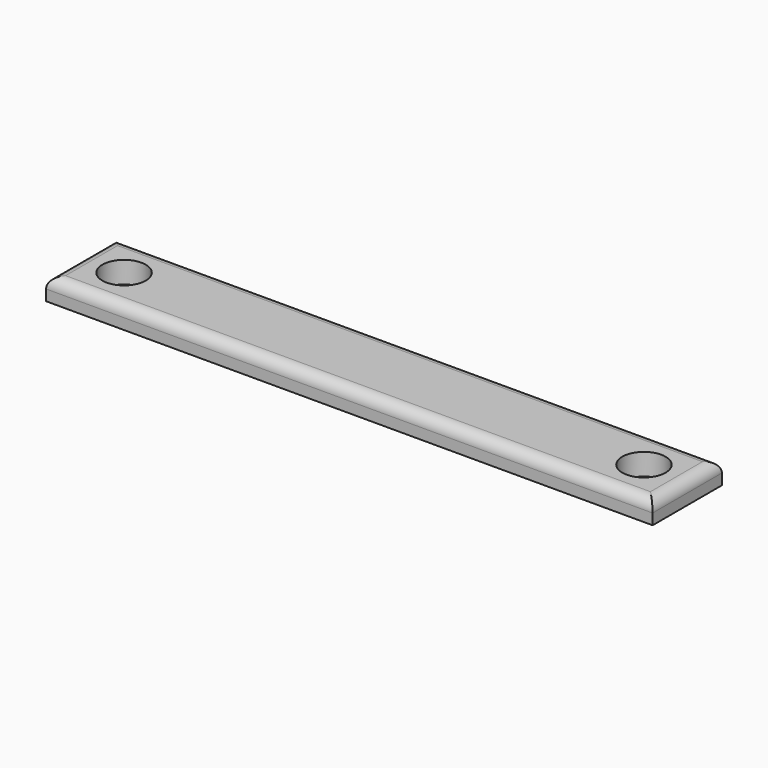
from build123d import *

# Parameters (mm, degrees)
F0_W     = 50
F0_H     = 20
F0_W_2   = 20
F0_R     = 5
F1_DEPTH = 5
F2_R     = 2.5


with BuildPart() as f1:
    # F0 (on Top) → F1 (new body)
    with BuildSketch(Plane.XY):
        with Locations((-25, 10)):
            Rectangle(F0_W, F0_H)
        with Locations((25, 10)):
            Rectangle(F0_W, F0_H)
        with Locations((60, 10)):
            Rectangle(F0_W_2, F0_H)
        with Locations((60, 10)):
            Circle(F0_R, mode=Mode.SUBTRACT)
        with Locations((-60, 10)):
            Rectangle(F0_W_2, F0_H)
        with Locations((-60, 10)):
            Circle(F0_R, mode=Mode.SUBTRACT)
    extrude(amount=F1_DEPTH)

    # F2
    f2_edges = [f1.edges().sort_by_distance(p)[0] for p in [
        (0, 20, 5),
        (70, 10, 5),
        (0, 0, 5),
        (-70, 10, 5),
    ]]
    fillet(f2_edges, radius=F2_R)


solid = f1.part
